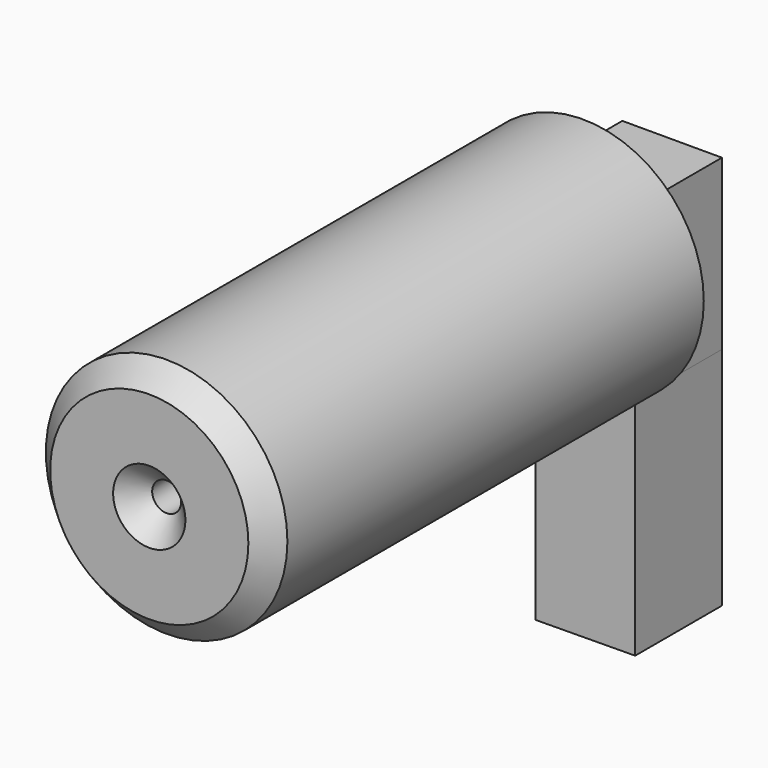
from build123d import *

# Parameters (mm, degrees)
F0_R     = 28.292316
F0_R_2   = 3.382118
F1_DEPTH = 127
F3_DEPTH = 25.4
F2_R     = 3.382118
F4_DEPTH = 25.4
F5_SIZE  = 5.08
F7_DEPTH = 25.4


with BuildPart() as f1:
    # F0 (on Front) → F1 (new body)
    with BuildSketch(Plane.XZ):
        Circle(F0_R)
        Circle(F0_R_2, mode=Mode.SUBTRACT)
    extrude(amount=F1_DEPTH)

    # F5
    f5_edges = [f1.edges().sort_by_distance(p)[0] for p in [
        (-3.382118, -127, 0),
        (-28.292316, -127, 0),
    ]]
    chamfer(f5_edges, length=F5_SIZE)


with BuildPart() as f3:
    # F2 (on face) → F3 (new body)
    with BuildSketch(Plane(origin=(0, 0, 0), x_dir=(-1, 0, 0), z_dir=(0, 1, 0))):
        with BuildLine():
            ThreePointArc((11.110286, -26.019544), (-0.608986, -28.285761), (-12.219861, -25.517252))
            Line((-12.219861, -25.517252), (-12.219861, -78.360312))
            Line((-12.219861, -78.360312), (11.110286, -78.566521))
            Line((11.110286, -78.566521), (11.110286, -26.019544))
        make_face()
    extrude(amount=F3_DEPTH)


with BuildPart() as f4:
    # F2 (on face) → F4 (new body)
    with BuildSketch(Plane(origin=(0, 0, 0), x_dir=(-1, 0, 0), z_dir=(0, 1, 0))):
        with BuildLine():
            Line((11.110286, 14.022371), (-12.219861, 14.022371))
            Line((-12.219861, 14.022371), (-12.219861, -25.517252))
            ThreePointArc((-12.219861, -25.517252), (-0.608986, -28.285761), (11.110286, -26.019544))
            Line((11.110286, -26.019544), (11.110286, 14.022371))
        make_face()
        Circle(F2_R, mode=Mode.SUBTRACT)
    extrude(amount=F4_DEPTH)

    # F6 (on face) → F7 (join)
    with BuildSketch(Plane(origin=(-11.110286, 0, 0), x_dir=(0, -1, 0), z_dir=(-1, 0, 0))):
        Polygon((-19.325826, -1.37928), (-19.817468, -1.809466), (-22.644401, -1.625101), (-21.108024, -3.745301), (-21.722576, -8.661707), (-17.113443, -11.519369), (-7.403541, -6.203504), (-12.16631, -2.485472), (-16.253073, -1.901649), (-16.959807, -1.102732), (-17.91236, -1.102732), (-18.557638, -1.102732), (-18.957097, -1.37928), align=None)
    extrude(amount=F7_DEPTH)


solid = Compound([f1.part, f3.part, f4.part])
